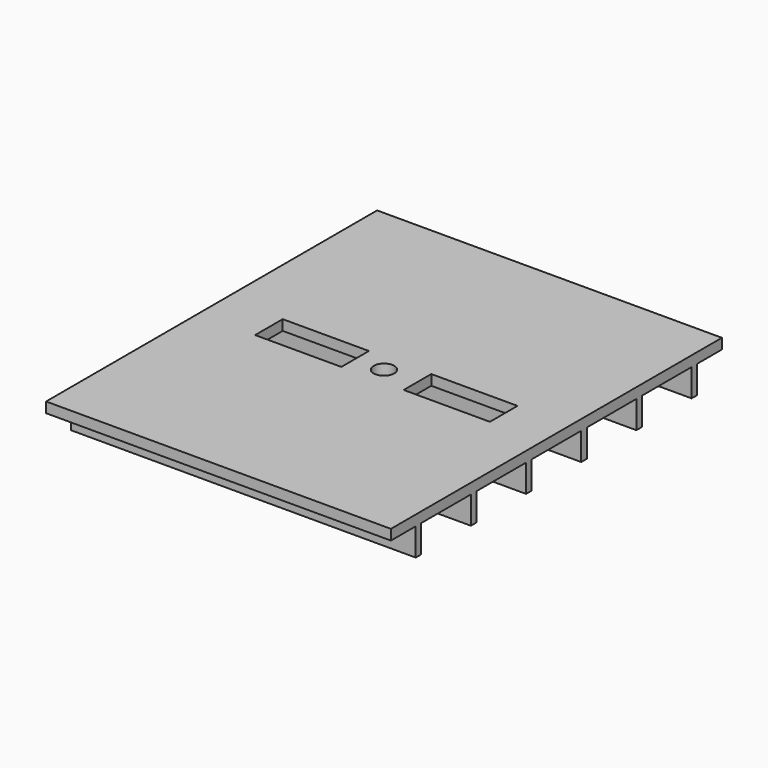
from build123d import *

# Parameters (mm, degrees)
F0_W          = 7620
F0_H          = 9144
F0_W_2        = 1905
F0_H_2        = 762
F0_R          = 228.6
F1_DEPTH      = 228.6
F2_W          = 152.4
F2_H          = 609.6
F3_DEPTH      = 3810
F3_DEPTH_BACK = 3810


with BuildPart() as f1:
    # F0 (on Top) → F1 (new body)
    with BuildSketch(Plane.XY):
        Rectangle(F0_W, F0_H)
        with Locations((-1590.675, 0)):
            Rectangle(F0_W_2, F0_H_2, mode=Mode.SUBTRACT)
        Circle(F0_R, mode=Mode.SUBTRACT)
        with Locations((1692.275, 0)):
            Rectangle(F0_W_2, F0_H_2, mode=Mode.SUBTRACT)
    extrude(amount=F1_DEPTH)

    # F2 (on Right) → F3 (join, two sides)
    with BuildSketch(Plane.YZ) as f3_sk:
        with Locations((-762, -304.8)):
            Rectangle(F2_W, F2_H)
        with Locations((762, -304.8)):
            Rectangle(F2_W, F2_H)
        with Locations((2286, -304.8)):
            Rectangle(F2_W, F2_H)
        with Locations((3810, -304.8)):
            Rectangle(F2_W, F2_H)
        with Locations((-3810, -304.8)):
            Rectangle(F2_W, F2_H)
        with Locations((-2286, -304.8)):
            Rectangle(F2_W, F2_H)
    extrude(amount=F3_DEPTH)
    extrude(f3_sk.sketch, amount=-F3_DEPTH_BACK)


solid = f1.part
